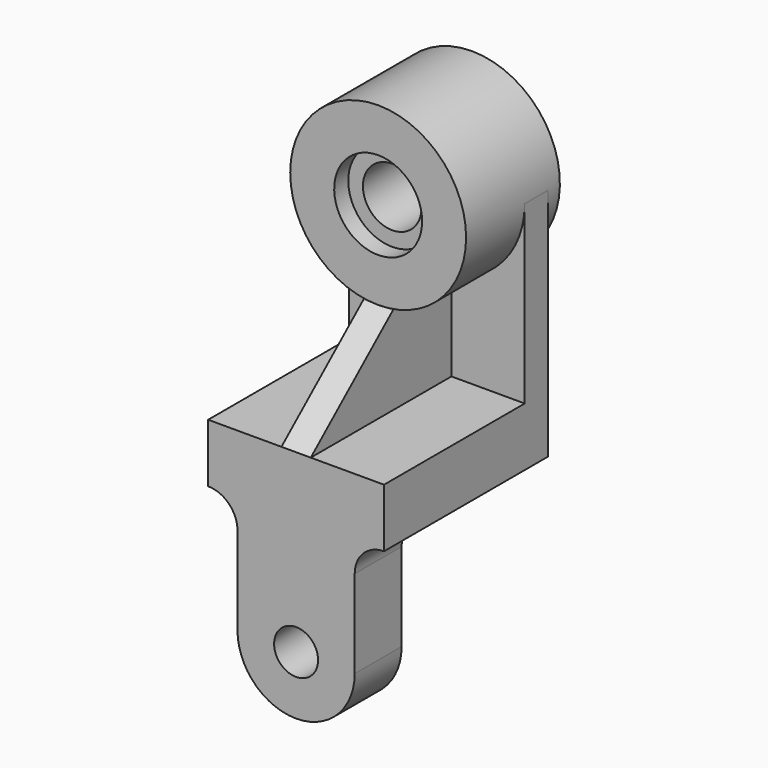
from build123d import *

# Parameters (mm, degrees)
F0_R     = 7.5
F0_W     = 60
F0_H     = 20
F1_DEPTH = 20
F2_DEPTH = 70
F3_W     = 28
F3_H     = 5
F3_W_2   = 6
F3_H_2   = 15
F3_W_3   = 1
F3_W_4   = 9
F3_H_3   = 10
F5_DEPTH = 30
F6_DEPTH = 5


with BuildPart() as f1:
    # F0 (on Front) → F1 (new body)
    with BuildSketch(Plane.XZ):
        with BuildLine():
            Line((-20, 30), (-20, 0))
            ThreePointArc((-20, 0), (0, -20), (20, 0))
            Line((20, 0), (20, 30))
            ThreePointArc((20, 30), (22.9289321881, 37.0710678119), (30, 40))
            Line((30, 40), (-30, 40))
            ThreePointArc((-30, 40), (-22.9289321881, 37.0710678119), (-20, 30))
        make_face()
        Circle(F0_R, mode=Mode.SUBTRACT)
        with Locations((0, 50)):
            Rectangle(F0_W, F0_H)
    extrude(amount=-F1_DEPTH)

    # F0 (on Front) → F2 (join)
    with BuildSketch(Plane.XZ):
        with Locations((0, 50)):
            Rectangle(F0_W, F0_H)
    extrude(amount=-F2_DEPTH)



with BuildPart() as f4:
    # F3 (on Right) → F4 (revolve)
    with BuildSketch(Plane.YZ):
        with Locations((55, 132.5)):
            Rectangle(F3_W, F3_H)
        with Locations((38, 142.5)):
            Rectangle(F3_W_2, F3_H_2)
        with Locations((72, 142.5)):
            Rectangle(F3_W_2, F3_H_2)
        with Locations((55, 142.5)):
            Rectangle(F3_W, F3_H_2)
    revolve(axis=Axis((0, 55, 120), (0, 1, 0)))


with BuildPart() as f1_1:
    add(f1.part)

    add(f4.part)  # F5 merges F4
    # F3 (on Right) → F5 (join, symmetric)
    with BuildSketch(Plane.YZ):
        Polygon((60, 90), (60, 60), (70, 60), (70, 90), (69, 90), align=None)
        with Locations((69.5, 97.5)):
            Rectangle(F3_W_3, F3_H_2)
        with Locations((64.5, 107.5)):
            Rectangle(F3_W_4, F3_H)
        with Locations((64.5, 115)):
            Rectangle(F3_W_4, F3_H_3)
        with Locations((64.5, 97.5)):
            Rectangle(F3_W_4, F3_H_2)
        with Locations((69.5, 115)):
            Rectangle(F3_W_3, F3_H_3)
        with Locations((69.5, 107.5)):
            Rectangle(F3_W_3, F3_H)
    extrude(amount=F5_DEPTH, both=True)

    # F3 (on Right) → F6 (join, symmetric)
    with BuildSketch(Plane.YZ):
        Polygon((35, 90), (0, 60), (60, 60), (60, 90), (41, 90), align=None)
        Polygon((41, 95.1428036188), (35, 90), (41, 90), align=None)
        Polygon((41, 90), (60, 90), (60, 105), (52.5001821322, 105), (41, 95.1428036188), align=None)
    extrude(amount=F6_DEPTH, both=True)

    # F3 (on Right) → F7 (revolve, cut)
    with BuildSketch(Plane.YZ):
        Polygon((35, 135), (35, 120), (41, 120), (41, 130), (41, 135), align=None)
        Polygon((41, 130), (41, 120), (60, 120), (69, 120), (69, 130), align=None)
        Polygon((69, 120), (70, 120), (75, 120), (75, 130), (69, 130), align=None)
        with Locations((72, 132.5)):
            Rectangle(F3_W_2, F3_H)
    revolve(axis=Axis((0, 55, 120), (0, 1, 0)), mode=Mode.SUBTRACT)


solid = f1_1.part
